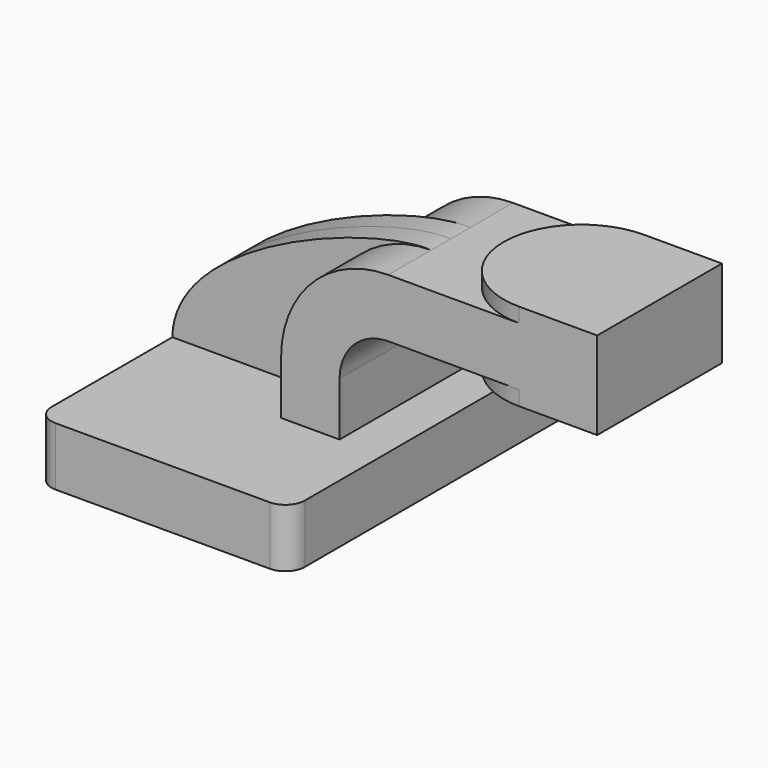
from build123d import *

# Parameters (mm, degrees)
F1_DEPTH = 63.5
F0_W     = 25.4
F0_H     = 19.05
F2_DEPTH = 25.4
F3_DEPTH = 7.9375
F5_R     = 6.35


with BuildPart() as f1:
    # F0 (on Front) → F1 (new body, symmetric)
    with BuildSketch(Plane.XZ):
        Polygon((8.1319350704, 9.525), (-41.275, 9.525), (-41.275, -9.525), (41.275, -9.525), (41.275, 9.525), (27.1819350704, 9.525), align=None)
    extrude(amount=F1_DEPTH, both=True)

    # F0 (on Front) → F2 (join, symmetric)
    with BuildSketch(Plane.XZ):
        with BuildLine():
            Line((8.1319350704, 27.0002), (8.1319350704, 9.525))
            Line((8.1319350704, 9.525), (27.1819350704, 9.525))
            Line((27.1819350704, 9.525), (27.1819350704, 27.0002))
            ThreePointArc((27.1819350704, 27.0002), (31.8316149191, 38.2255201513), (43.0569350704, 42.8752))
            Line((43.0569350704, 42.8752), (60.325, 42.8752))
            Line((60.325, 42.8752), (60.325, 61.9252))
            Line((60.325, 61.9252), (43.0569350704, 61.9252))
            ThreePointArc((43.0569350704, 61.9252), (18.3612307375, 51.6959043329), (8.1319350704, 27.0002))
        make_face()
        Polygon((85.725, 66.675), (85.725, 61.9252), (85.725, 42.8752), (85.725, 38.1), (111.125, 38.1), (111.125, 66.675), align=None)
        with Locations((73.025, 52.4002)):
            Rectangle(F0_W, F0_H)
    extrude(amount=F2_DEPTH, both=True)

    # F0 (on Front) → F3 (join, symmetric)
    with BuildSketch(Plane.XZ):
        with BuildLine():
            add(Edge.make_bspline(
                [(-41.275, 9.525), (-40.8404879272, 39.9630628526), (24.2341663688, 63.2040128112), (43.0569350704, 61.9252)],
                knots=[0, 0, 0, 0, 99.2857302575, 99.2857302575, 99.2857302575, 99.2857302575], degree=3))
            Line((-41.275, 9.525), (8.1319350704, 9.525))
            Line((8.1319350704, 9.525), (8.1319350704, 27.0002))
            ThreePointArc((8.1319350704, 27.0002), (18.3612307375, 51.6959043329), (43.0569350704, 61.9252))
        make_face()
    extrude(amount=F3_DEPTH, both=True)

    # F0 (on Front) → F4 (revolve)
    with BuildSketch(Plane.XZ):
        Polygon((85.725, 66.675), (85.725, 61.9252), (85.725, 42.8752), (85.725, 38.1), (111.125, 38.1), (111.125, 66.675), align=None)
    revolve(axis=Axis((85.725, 0, 52.3875), (0, 0, 1)))

    # F5
    f5_edges = [f1.edges().sort_by_distance(p)[0] for p in [
        (-41.275, -63.5, 0),
        (41.275, -63.5, 0),
        (41.275, 63.5, 0),
        (-41.275, 63.5, 0),
    ]]
    fillet(f5_edges, radius=F5_R)


solid = f1.part
